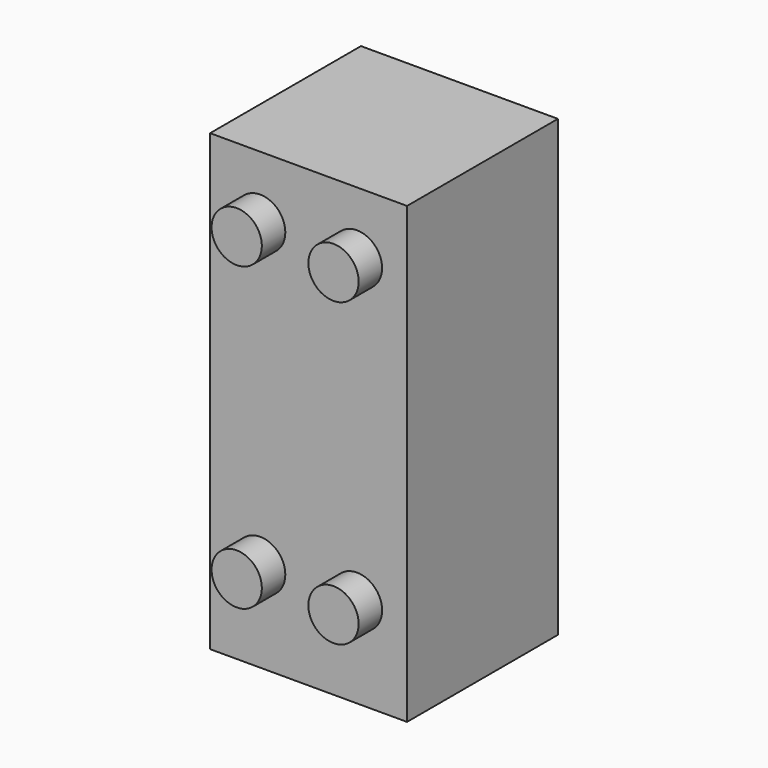
from build123d import *

# Parameters (mm, degrees)
F0_W     = 470
F0_H     = 1084
F1_DEPTH = 225
F2_R     = 60
F3_DEPTH = 70


with BuildPart() as f1:
    # F0 (on Front) → F1 (new body, symmetric)
    with BuildSketch(Plane.XZ):
        Rectangle(F0_W, F0_H)
    extrude(amount=F1_DEPTH, both=True)

    # F2 (on face) → F3 (join)
    with BuildSketch(Plane.XZ.offset(225)):
        with Locations((-115.5, 392)):
            Circle(F2_R)
        with Locations((-115.5, -327)):
            Circle(F2_R)
        with Locations((115.5, 392)):
            Circle(F2_R)
        with Locations((115.5, -327)):
            Circle(F2_R)
    extrude(amount=F3_DEPTH)


solid = f1.part
